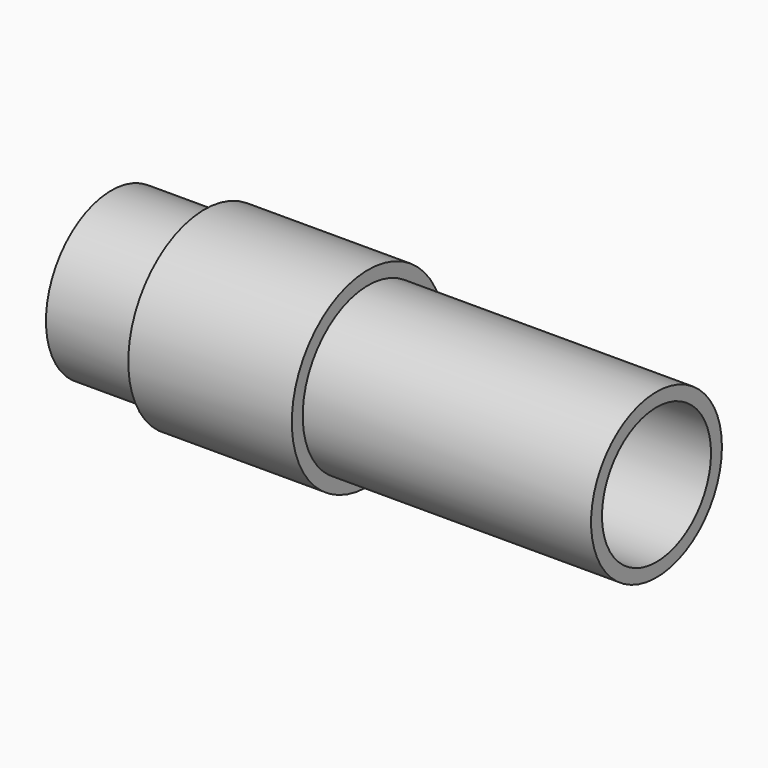
from build123d import *

# Parameters (mm, degrees)
F0_R     = 1.5
F0_R_2   = 1.25
F1_DEPTH = 10
F3_R     = 1.75
F3_R_2   = 1.5
F4_DEPTH = 3


with BuildPart() as f1:
    # F0 (on Right) → F1 (new body)
    with BuildSketch(Plane.YZ):
        Circle(F0_R)
        Circle(F0_R_2, mode=Mode.SUBTRACT)
    extrude(amount=F1_DEPTH)

    # F3 (on offset) → F4 (join)
    with BuildSketch(Plane.YZ.offset(1.71)):
        Circle(F3_R)
        Circle(F3_R_2, mode=Mode.SUBTRACT)
    extrude(amount=F4_DEPTH)


solid = f1.part
